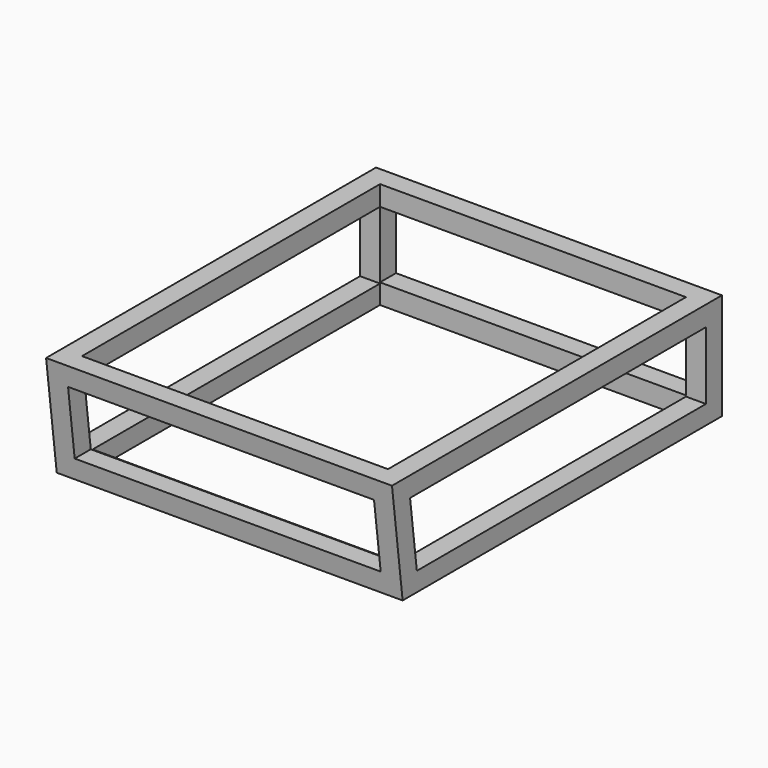
from build123d import *

# Parameters (mm, degrees)
F1_DEPTH = 66.04
F2_W     = 58.42
F2_H     = 71.12
F3_DEPTH = 3.81
F4_W     = 58.42
F4_H     = 12.7
F5_DEPTH = 101.6
F6_W     = 58.42
F6_H     = 68.58
F7_DEPTH = 25.4


with BuildPart() as f1:
    # F0 (on Right) → F1 (new body)
    with BuildSketch(Plane.YZ):
        Polygon((-79.753995, 36.364574), (-77.213995, 16.044574), (-1.013995, 16.044574), (-1.013995, 36.364574), align=None)
        Polygon((-75.438095, 32.554574), (-4.823995, 32.554574), (-4.823995, 19.651505), (-73.825211, 19.651505), align=None, mode=Mode.SUBTRACT)
    extrude(amount=F1_DEPTH)

    # F2 (on face) → F3 (cut)
    with BuildSketch(Plane.XY.offset(36.364574)):
        with Locations((33.02, -40.383995)):
            Rectangle(F2_W, F2_H)
    extrude(amount=-F3_DEPTH, mode=Mode.SUBTRACT)

    # F4 (on face) → F5 (cut)
    with BuildSketch(Plane(origin=(0, -1.013995, 0), x_dir=(-1, 0, 0), z_dir=(0, 1, 0))):
        with Locations((-33.02, 26.204574)):
            Rectangle(F4_W, F4_H)
    extrude(amount=-F5_DEPTH, mode=Mode.SUBTRACT)

    # F6 (on face) → F7 (cut)
    with BuildSketch(Plane(origin=(0, 0, 16.044574), x_dir=(1, 0, 0), z_dir=(0, 0, -1))):
        with Locations((33.02, 39.113995)):
            Rectangle(F6_W, F6_H)
    extrude(amount=-F7_DEPTH, mode=Mode.SUBTRACT)


solid = f1.part
